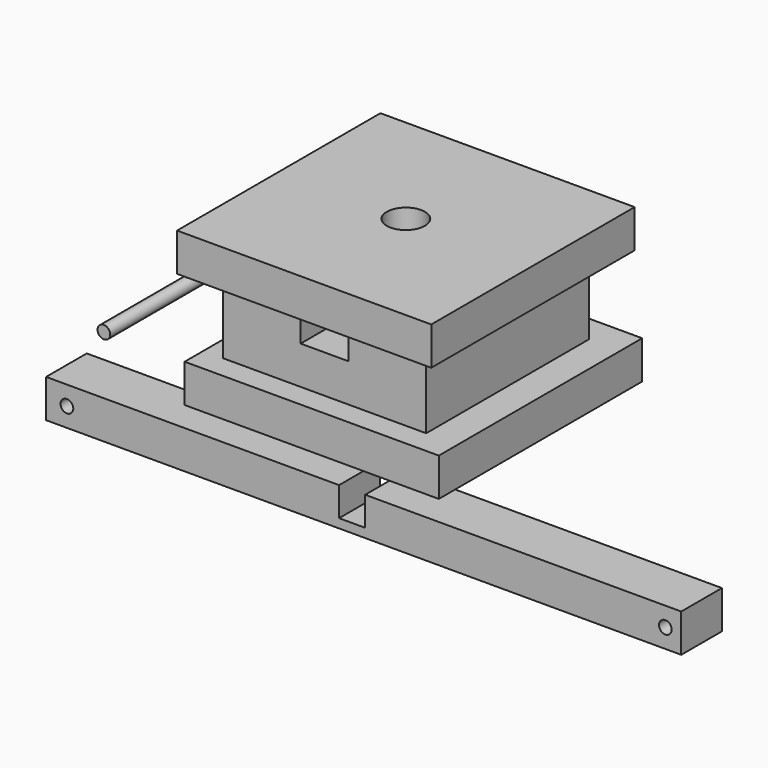
from build123d import *

# Parameters (mm, degrees)
F0_W      = 127
F0_H      = 127
F1_DEPTH  = 19.05
F2_W      = 101.6
F2_H      = 101.6
F3_DEPTH  = 38.1
F4_W      = 127
F4_H      = 127
F4_W_2    = 101.6
F4_H_2    = 101.6
F5_DEPTH  = 19.05
F8_D      = 19.05
F9_DEPTH  = 115.3414966296
F11_DEPTH = 25.4
F13_D     = 6.35
F14_R     = 3.175
F15_DEPTH = 63.5


with BuildPart() as f1:
    # F0 (on Top) → F1 (new body)
    with BuildSketch(Plane.XY):
        with Locations((2.9404070228, 1.0404966296)):
            Rectangle(F0_W, F0_H)
    extrude(amount=F1_DEPTH)

    # F2 (on face) → F3 (join)
    with BuildSketch(Plane.XY.offset(19.05)):
        Rectangle(F2_W, F2_H)
    extrude(amount=F3_DEPTH)

    # F4 (on face) → F5 (join)
    with BuildSketch(Plane.XY.offset(57.15)):
        Rectangle(F4_W, F4_H)
        Rectangle(F4_W_2, F4_H_2, mode=Mode.SUBTRACT)
        Rectangle(F4_W_2, F4_H_2)
    extrude(amount=F5_DEPTH)

    # F8 (through all)
    with Locations(Plane.XY.offset(76.2)):
        with Locations((0, 0)):
            Hole(F8_D / 2)

    # F6 (on face) → F9 (cut, through all)
    with BuildSketch(Plane.XZ.offset(50.8)):
        Polygon((-11.90625, 38.1), (0, 38.1), (11.90625, 38.1), (11.90625, 57.15), (-11.90625, 57.15), align=None)
    extrude(amount=-F9_DEPTH, mode=Mode.SUBTRACT)


with BuildPart() as f11:
    # F10 (on Front) → F11 (new body)
    with BuildSketch(Plane.XZ):
        Polygon((157.9144424833, -53.8914430416), (157.9144424833, -34.8414430416), (18.5486808761, -34.8414430416), (0, -34.8414430416), (0, -44.3664430416), (0, -49.3795995867), (-13.0342097324, -49.3795995867), (-13.0342097324, -44.3664430416), (-13.0342097324, -34.8414430416), (-159.4184043804, -34.8414430416), (-159.4184043804, -53.8914430416), align=None)
    extrude(amount=F11_DEPTH)

    # F13 (through all)
    with Locations(Plane.XZ.offset(25.4)):
        with Locations((-149.0103602409, -44.3664430416), (149.9825268984, -44.3664430416)):
            Hole(F13_D / 2)


with BuildPart() as f15:
    # F14 (on Front) → F15 (new body)
    with BuildSketch(Plane.XZ):
        with Locations((-100.0563427806, 19.634494558)):
            Circle(F14_R)
    extrude(amount=F15_DEPTH)


solid = Compound([f1.part, f11.part, f15.part])
